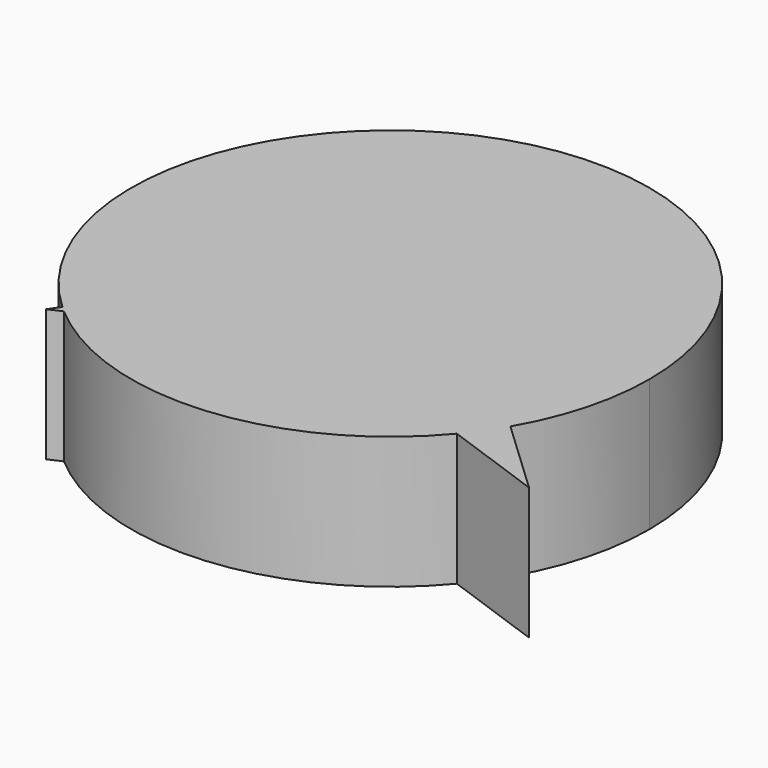
from build123d import *

# Parameters (mm, degrees)
F1_DEPTH = 25.4


with BuildPart() as f1:
    # F0 (on Top) → F1 (new body)
    with BuildSketch(Plane.XY):
        with BuildLine():
            Line((52.366644, -30.758103), (37.739473, -16.960308))
            ThreePointArc((37.739473, -16.960308), (35.484092, -20.493731), (32.939665, -23.825055))
            Line((32.939665, -23.825055), (52.366644, -30.758103))
        make_face()
        with BuildLine():
            ThreePointArc((32.939665, -23.825055), (35.484092, -20.493731), (37.739473, -16.960308))
            ThreePointArc((37.739473, -16.960308), (42.761607, -4.89793), (44.474931, 8.055344))
            ThreePointArc((44.474931, 8.055344), (-25.394513, 53.666142), (-39.036005, -28.650283))
            ThreePointArc((-39.036005, -28.650283), (-38.498653, -29.13632), (-37.95429, -29.61449))
            Line((-37.95429, -29.61449), (0.543222, -12.263499))
            Line((0.543222, -12.263499), (32.939665, -23.825055))
        make_face()
        with BuildLine():
            ThreePointArc((-37.95429, -29.61449), (-1.292025, -41.601448), (32.939665, -23.825055))
            Line((32.939665, -23.825055), (0.543222, -12.263499))
            Line((0.543222, -12.263499), (-37.95429, -29.61449))
        make_face()
        with BuildLine():
            Line((-40.491682, -30.758103), (-37.95429, -29.61449))
            ThreePointArc((-37.95429, -29.61449), (-38.498653, -29.13632), (-39.036005, -28.650283))
            Line((-39.036005, -28.650283), (-40.491682, -30.758103))
        make_face()
    extrude(amount=F1_DEPTH)


solid = f1.part
